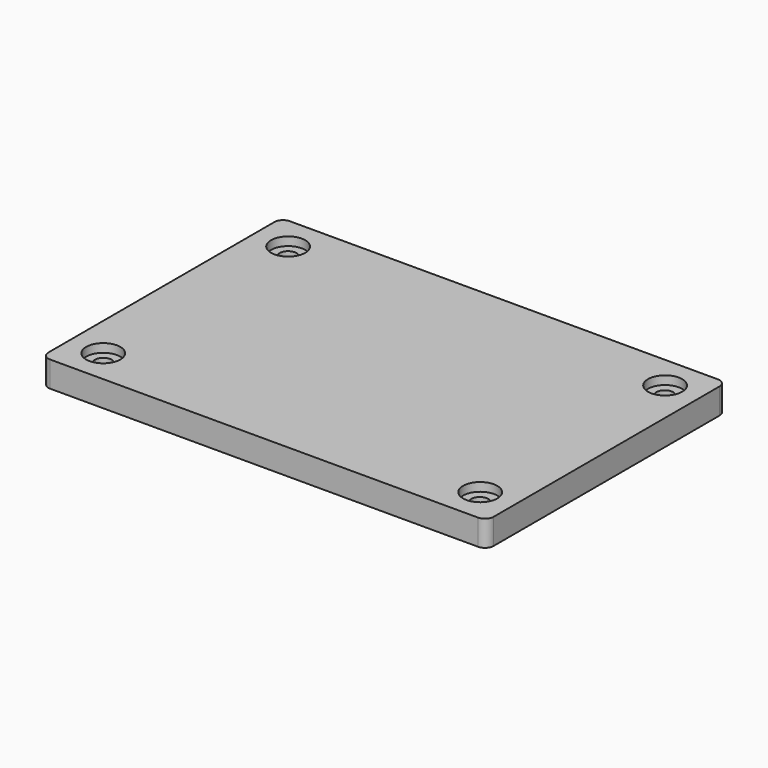
from build123d import *

# Parameters (mm, degrees)
SKETCH_W        = 52
SKETCH_H        = 35
PAD_DEPTH       = 3
FILLET_R        = 1
FILLET001_R     = 1
FILLET002_R     = 1
FILLET003_R     = 1
SKETCH001_R     = 1
POCKET_DEPTH    = 5
SKETCH002_R     = 2
POCKET001_DEPTH = 1


with BuildPart() as part:
    # Sketch → Pad (new body)
    with BuildSketch(Plane.XY):
        with Locations((26, 17.5)):
            Rectangle(SKETCH_W, SKETCH_H)
    extrude(amount=PAD_DEPTH)

    # Fillet
    fillet_edges = [part.edges().sort_by_distance(p)[0] for p in [
        (0, 0, 1.5),
    ]]
    fillet(fillet_edges, radius=FILLET_R)

    # Fillet001
    fillet001_edges = [part.edges().sort_by_distance(p)[0] for p in [
        (52, 0, 1.5),
    ]]
    fillet(fillet001_edges, radius=FILLET001_R)

    # Fillet002
    fillet002_edges = [part.edges().sort_by_distance(p)[0] for p in [
        (52, 35, 1.5),
    ]]
    fillet(fillet002_edges, radius=FILLET002_R)

    # Fillet003
    fillet003_edges = [part.edges().sort_by_distance(p)[0] for p in [
        (0, 35, 1.5),
    ]]
    fillet(fillet003_edges, radius=FILLET003_R)

    # Sketch001 → Pocket (cut)
    with BuildSketch(Plane.XY.offset(3)):
        with Locations((4, 31)):
            Circle(SKETCH001_R)
        with Locations((48, 31)):
            Circle(SKETCH001_R)
        with Locations((4, 4)):
            Circle(SKETCH001_R)
        with Locations((48, 4)):
            Circle(SKETCH001_R)
    extrude(amount=-POCKET_DEPTH, mode=Mode.SUBTRACT)

    # Sketch002 → Pocket001 (cut)
    with BuildSketch(Plane.XY.offset(3)):
        with Locations((4, 31)):
            Circle(SKETCH002_R)
        with Locations((4, 4)):
            Circle(SKETCH002_R)
        with Locations((48, 31.048822)):
            Circle(SKETCH002_R)
        with Locations((48, 4.048822)):
            Circle(SKETCH002_R)
    extrude(amount=-POCKET001_DEPTH, mode=Mode.SUBTRACT)


solid = part.part
